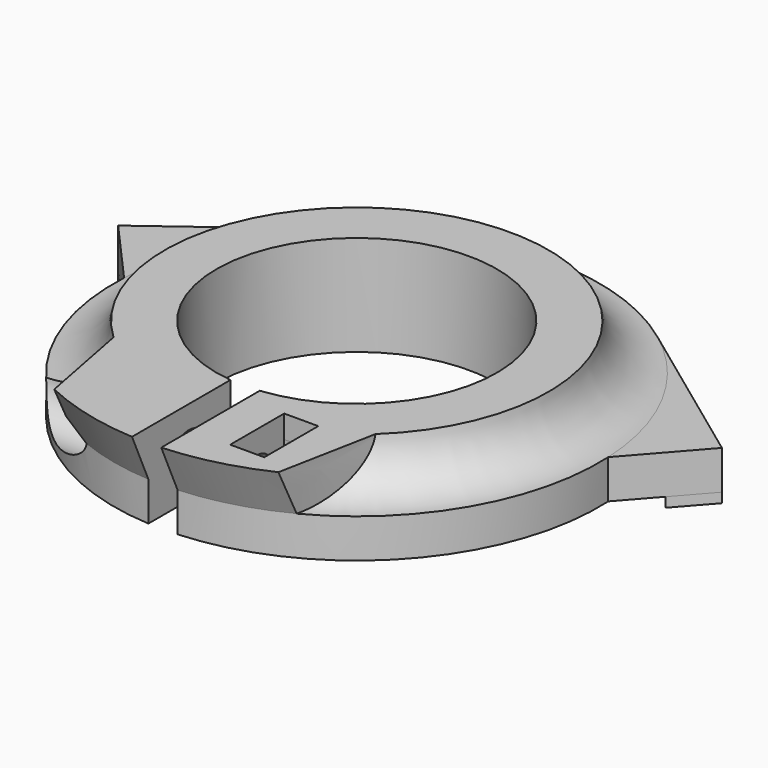
from build123d import *

# Parameters (mm, degrees)
SKETCH003_W     = 3
SKETCH003_H     = 17
POCKET_DEPTH    = 11
SKETCH004_R     = 3.5
POCKET001_DEPTH = 15
SKETCH005_R     = 2
POCKET002_DEPTH = 18
POCKET003_DEPTH = 3.5
PAD_DEPTH       = 4
PAD001_DEPTH    = 1


with BuildPart() as part:
    # Sketch → Revolution (revolve)
    with BuildSketch(Plane.XZ):
        with BuildLine():
            Line((14.4, 0), (14.4, 10.3))
            Line((14.4, 10.3), (19.7, 10.3))
            ThreePointArc((19.7, 10.3), (21.39536, 6.949122), (24.9, 5.6))
            Line((24.9, 1.6), (24.9, 5.6))
            Line((18, 1.6), (24.9, 1.6))
            Line((18, 0), (18, 1.6))
            Line((14.4, 0), (18, 0))
        make_face()
    revolve(axis=Axis((0, 0, 0), (0, 0, 1)))

    # Sketch002 → AdditiveLoft section 0
    with BuildSketch(Plane.XY.offset(5.6)):
        with BuildLine():
            ThreePointArc((-11.510788, -22.079668), (-0.006082, -24.899999), (11.5, -22.085289))
            Line((13.443585, -14.4), (11.5, -22.085289))
            Line((-13.443585, -14.4), (13.443585, -14.4))
            Line((-11.510788, -22.079668), (-13.443585, -14.4))
        make_face()
    # Sketch001 → AdditiveLoft section 1
    with BuildSketch(Plane.XY.offset(10.3)):
        with BuildLine():
            ThreePointArc((-11.510788, -24.423386), (-0.005962, -26.999999), (11.5, -24.428467))
            Line((13.443585, -14.4), (11.5, -24.428467))
            Line((-13.443585, -14.4), (13.443585, -14.4))
            Line((-11.510788, -24.423386), (-13.443585, -14.4))
        make_face()
    loft()

    # Sketch003 → Pocket (cut)
    with BuildSketch(Plane.XY):
        with Locations((0, -20.5)):
            Rectangle(SKETCH003_W, SKETCH003_H)
    extrude(amount=POCKET_DEPTH, mode=Mode.SUBTRACT)

    # Sketch004 → Pocket001 (cut)
    with BuildSketch(Plane.YZ.offset(-22)):
        with Locations((-19.65, 5.95)):
            Circle(SKETCH004_R)
    extrude(amount=POCKET001_DEPTH, mode=Mode.SUBTRACT)

    # Sketch005 → Pocket002 (cut)
    with BuildSketch(Plane.YZ.offset(-7)):
        with Locations((-19.65, 5.95)):
            Circle(SKETCH005_R)
    extrude(amount=POCKET002_DEPTH, mode=Mode.SUBTRACT)

    # Sketch006 → Pocket003 (cut)
    with BuildSketch(Plane.YZ.offset(5.5)):
        Polygon((-16.185898, 3.950001), (-16.185899, 7.950001), (-16.185899, 15.950001), (-23.114102, 15.95), (-23.114102, 3.950001), (-19.65, 1.95), align=None)
    extrude(amount=POCKET003_DEPTH, mode=Mode.SUBTRACT)

    # Sketch007 → Pad (join)
    with BuildSketch(Plane.XY.offset(1.6)):
        with BuildLine():
            ThreePointArc((-14.87057, 19.971884), (-21.967056, 11.724267), (-24.869203, 1.238045))
            Line((-30.912244, 8.027651), (-24.869203, 1.238045))
            Line((-14.87057, 19.971884), (-30.912244, 8.027651))
        make_face()
        with BuildLine():
            Line((14.870569, 19.971885), (30.983027, 8.123311))
            Line((30.983027, 8.123311), (24.87227, 1.174812))
            ThreePointArc((24.87227, 1.174812), (21.981943, 11.696333), (14.870569, 19.971885))
        make_face()
    extrude(amount=PAD_DEPTH)

    # Sketch008 → Pad001 (join)
    with BuildSketch(Plane.XY.offset(0.6)):
        Polygon((25.386727, 12.252334), (30.983027, 8.123311), (27.935703, 4.669279), align=None)
        Polygon((-25.32744, 12.17221), (-30.912244, 8.027651), (-27.855333, 4.582101), align=None)
    extrude(amount=PAD001_DEPTH)


solid = part.part
